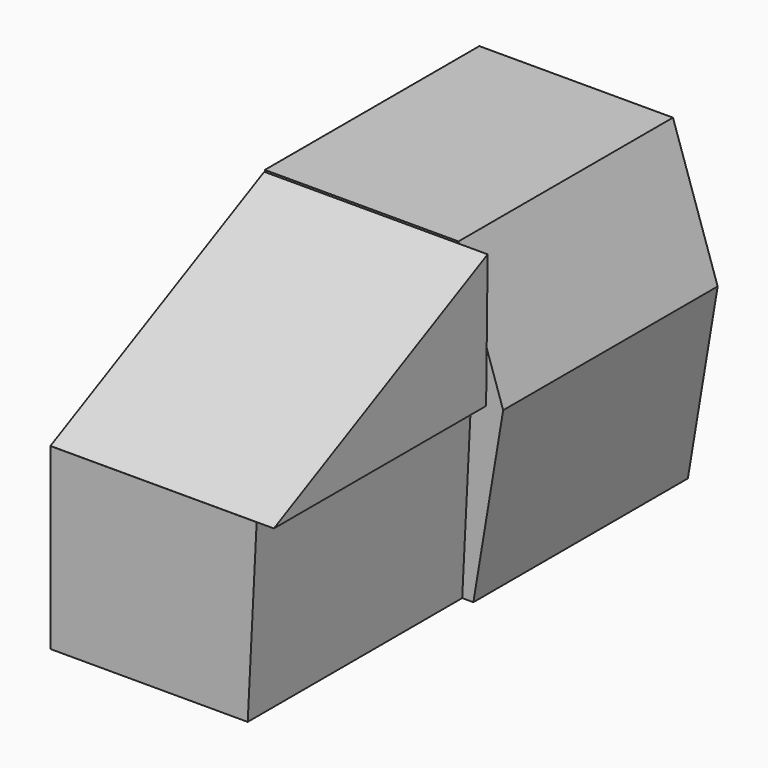
from build123d import *

# Parameters (mm, degrees)
F12_DEPTH = 914.4
F13_DEPTH = 914.4
F14_DEPTH = 762
F15_DEPTH = 914.4


with BuildPart() as f12:
    # F8 (on offset) → F12 (new body, through all)
    with BuildSketch(Plane.XZ.offset(2438.4)):
        Polygon((673.1, -609.6), (703.58, 0), (0, 0), (0, -609.6), align=None)
    extrude(amount=-F12_DEPTH)

    # F10 (on offset) → F13 (join, through all)
    with BuildSketch(Plane.XZ.offset(1524)):
        Polygon((0, 457.2), (0, 0), (673.1, 0), (584.2, 457.2), align=None)
        Polygon((673.1, 0), (0, 0), (0, -609.6), (609.6, -609.6), align=None)
    extrude(amount=-F13_DEPTH)

    # F11 (on Right) → F14 (join)
    with BuildSketch(Plane.YZ):
        Polygon((-1526.670575, 452.586561), (-2437.97636, 0), (-1533.226132, 0), align=None)
    extrude(amount=F14_DEPTH)

    # F9 (on offset) → F15 (join)
    with BuildSketch(Plane.XZ.offset(609.6)):
        Polygon((0, 457.2), (0, 0), (812.8, 0), (660.4, 457.2), align=None)
        Polygon((812.8, 0), (0, 0), (0, -609.6), (711.2, -609.6), align=None)
    extrude(amount=F15_DEPTH)


solid = f12.part
